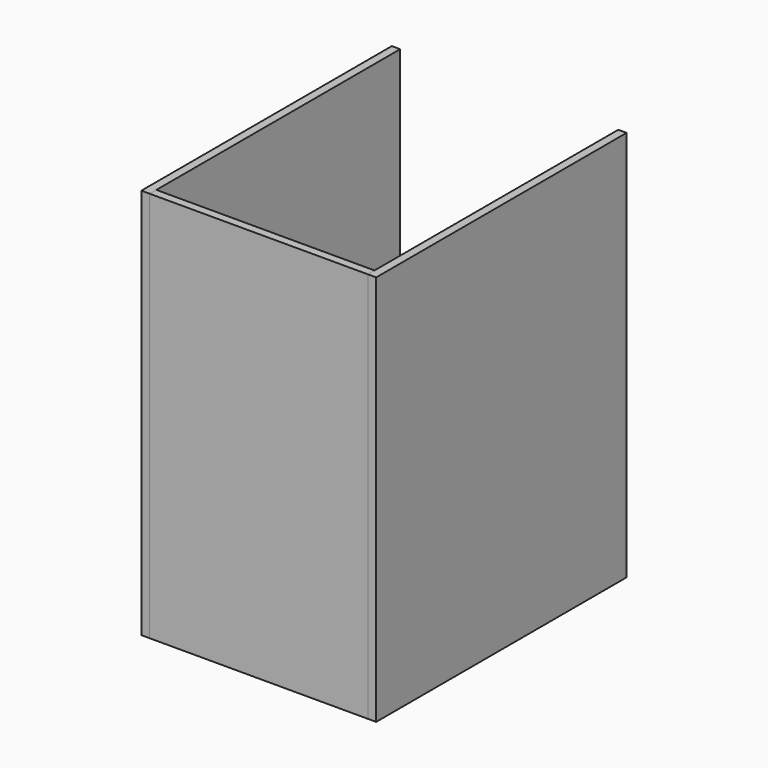
from build123d import *

# Parameters (mm, degrees)
F0_W      = 418
F0_H      = 584
F1_DEPTH  = 16
F2_W      = 418
F2_H      = 750
F3_DEPTH  = 16
F4_W      = 600
F4_H      = 750
F5_DEPTH  = 16
F6_W      = 600
F6_H      = 750
F7_DEPTH  = 16
F8_W      = 398
F8_H      = 16
F9_DEPTH  = 500
F10_W     = 16
F10_H     = 500
F11_DEPTH = 100
F12_W     = 16
F12_H     = 500
F13_DEPTH = 100
F14_W     = 366
F14_H     = 16
F15_DEPTH = 100
F16_W     = 366
F16_H     = 16
F17_DEPTH = 100


with BuildPart() as f1:
    # F0 (on Top) → F1 (new body)
    with BuildSketch(Plane.XY):
        Rectangle(F0_W, F0_H)
    extrude(amount=-F1_DEPTH)


with BuildPart() as f3:
    # F2 (on face) → F3 (new body)
    with BuildSketch(Plane.XZ.offset(292)):
        with Locations((0, 359)):
            Rectangle(F2_W, F2_H)
    extrude(amount=F3_DEPTH)


with BuildPart() as f5:
    # F4 (on face) → F5 (new body)
    with BuildSketch(Plane.YZ.offset(209)):
        with Locations((-8, 359)):
            Rectangle(F4_W, F4_H)
    extrude(amount=F5_DEPTH)


with BuildPart() as f7:
    # F6 (on face) → F7 (new body)
    with BuildSketch(Plane(origin=(-209, 0, 0), x_dir=(0, -1, 0), z_dir=(-1, 0, 0))):
        with Locations((8, 359)):
            Rectangle(F6_W, F6_H)
    extrude(amount=F7_DEPTH)


with BuildPart() as f9:
    # F8 (on face) → F9 (new body)
    with BuildSketch(Plane(origin=(0, 292, 0), x_dir=(-1, 0, 0), z_dir=(0, 1, 0))):
        with Locations((-3.023104, 14.239265)):
            Rectangle(F8_W, F8_H)
    extrude(amount=-F9_DEPTH)


with BuildPart() as f11:
    # F10 (on face) → F11 (new body)
    with BuildSketch(Plane.XY.offset(22.239265)):
        with Locations((194.023104, 42)):
            Rectangle(F10_W, F10_H)
    extrude(amount=F11_DEPTH)


with BuildPart() as f13:
    # F12 (on face) → F13 (new body)
    with BuildSketch(Plane.XY.offset(22.239265)):
        with Locations((-187.976896, 42)):
            Rectangle(F12_W, F12_H)
    extrude(amount=F13_DEPTH)


with BuildPart() as f15:
    # F14 (on face) → F15 (new body)
    with BuildSketch(Plane.XY.offset(22.239265)):
        with Locations((3.296288, -200)):
            Rectangle(F14_W, F14_H)
    extrude(amount=F15_DEPTH)


with BuildPart() as f17:
    # F16 (on face) → F17 (new body)
    with BuildSketch(Plane.XY.offset(22.239265)):
        with Locations((3.023104, 284)):
            Rectangle(F16_W, F16_H)
    extrude(amount=F17_DEPTH)


solid = Compound([f1.part, f3.part, f5.part, f7.part, f9.part, f11.part, f13.part, f15.part, f17.part])
